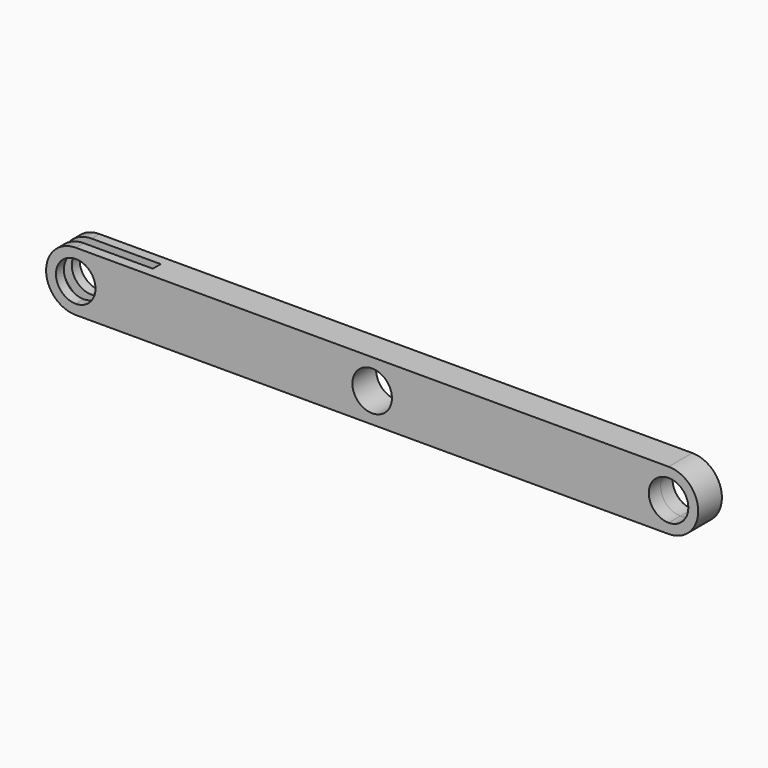
from build123d import *

# Parameters (mm, degrees)
F0_R     = 10
F1_DEPTH = 7.5
F2_W     = 50
F2_H     = 5
F3_DEPTH = 15


with BuildPart() as f1:
    # F0 (on Front) → F1 (new body, symmetric)
    with BuildSketch(Plane.XZ):
        with BuildLine():
            Line((150, 15), (-150, 15))
            Line((-150, 15), (-150, 10))
            ThreePointArc((-150, 10), (-142.9289321881, 7.0710678119), (-140, 0))
            ThreePointArc((-140, 0), (-142.9289321881, -7.0710678119), (-150, -10))
            Line((-150, -10), (-150, -15))
            Line((-150, -15), (150, -15))
            Line((150, -15), (150, -10))
            ThreePointArc((150, -10), (140, 0), (150, 10))
            Line((150, 10), (150, 15))
        make_face()
        Circle(F0_R, mode=Mode.SUBTRACT)
        with BuildLine():
            Line((-150, 10), (-150, 15))
            ThreePointArc((-150, 15), (-165, 0), (-150, -15))
            Line((-150, -15), (-150, -10))
            ThreePointArc((-150, -10), (-160, 0), (-150, 10))
        make_face()
        with BuildLine():
            ThreePointArc((150, -15), (165, 0), (150, 15))
            Line((150, 15), (150, 10))
            ThreePointArc((150, 10), (157.0710678119, 7.0710678119), (160, 0))
            ThreePointArc((160, 0), (157.0710678119, -7.0710678119), (150, -10))
            Line((150, -10), (150, -15))
        make_face()
    extrude(amount=F1_DEPTH, both=True)

    # F2 (on Top) → F3 (cut, symmetric)
    with BuildSketch(Plane.XY):
        with Locations((-140, 0)):
            Rectangle(F2_W, F2_H)
    extrude(amount=F3_DEPTH, both=True, mode=Mode.SUBTRACT)


solid = f1.part
